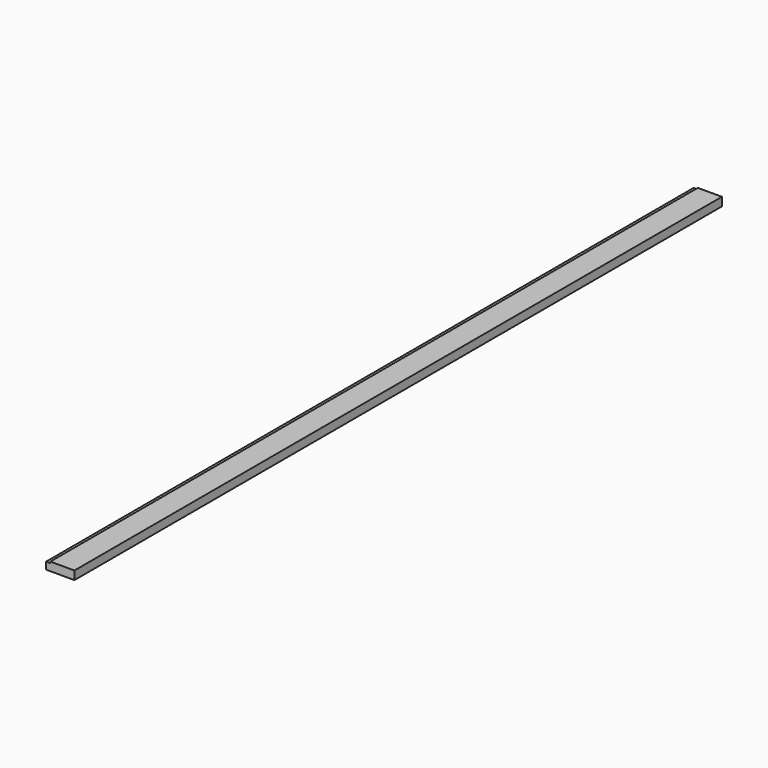
from build123d import *

# Parameters (mm, degrees)
F0_W     = 63.5
F0_H     = 1812.925
F1_DEPTH = 19.05
F2_W     = 9.525
F2_H     = 3.175
F3_DEPTH = 1812.926


with BuildPart() as f1:
    # F0 (on Top) → F1 (new body)
    with BuildSketch(Plane.XY):
        with Locations((-31.75, 0)):
            Rectangle(F0_W, F0_H)
    extrude(amount=F1_DEPTH)

    # F2 (on face) → F3 (cut, through all)
    with BuildSketch(Plane.XZ.offset(906.4625)):
        with Locations((-58.7375, 17.4625)):
            Rectangle(F2_W, F2_H)
    extrude(amount=-F3_DEPTH, mode=Mode.SUBTRACT)


solid = f1.part
